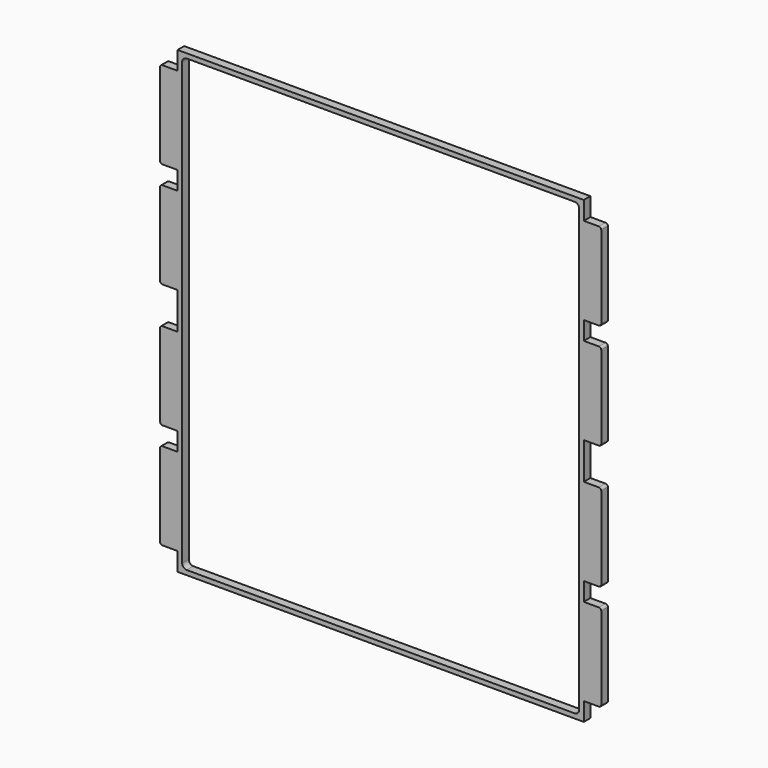
from build123d import *

# Parameters (mm, degrees)
F1_DEPTH = 18


with BuildPart() as f1:
    # F0 (on Front) → F1 (new body)
    with BuildSketch(Plane.XZ):
        with BuildLine():
            Line((0, 40), (0, 0))
            Line((0, 0), (884, 0))
            Line((884, 0), (884, 40))
            Line((884, 40), (917, 40))
            ThreePointArc((917, 40), (920.535534, 41.464466), (922, 45))
            Line((922, 45), (922, 225))
            ThreePointArc((922, 225), (920.535534, 228.535534), (917, 230))
            Line((917, 230), (884, 230))
            Line((884, 230), (884, 270))
            Line((884, 270), (917, 270))
            ThreePointArc((917, 270), (920.535534, 271.464466), (922, 275))
            Line((922, 275), (922, 455))
            ThreePointArc((922, 455), (920.535534, 458.535534), (917, 460))
            Line((917, 460), (884, 460))
            Line((884, 460), (884, 540))
            Line((884, 540), (917, 540))
            ThreePointArc((917, 540), (920.535534, 541.464466), (922, 545))
            Line((922, 545), (922, 725))
            ThreePointArc((922, 725), (920.535534, 728.535534), (917, 730))
            Line((917, 730), (884, 730))
            Line((884, 730), (884, 770))
            Line((884, 770), (917, 770))
            ThreePointArc((917, 770), (920.535534, 771.464466), (922, 775))
            Line((922, 775), (922, 955))
            ThreePointArc((922, 955), (920.535534, 958.535534), (917, 960))
            Line((917, 960), (884, 960))
            Line((884, 960), (884, 1000))
            Line((884, 1000), (0, 1000))
            Line((0, 1000), (0, 960))
            Line((0, 960), (-33, 960))
            ThreePointArc((-33, 960), (-36.535534, 958.535534), (-38, 955))
            Line((-38, 955), (-38, 775))
            ThreePointArc((-38, 775), (-36.535534, 771.464466), (-33, 770))
            Line((-33, 770), (0, 770))
            Line((0, 770), (0, 730))
            Line((0, 730), (-33, 730))
            ThreePointArc((-33, 730), (-36.535534, 728.535534), (-38, 725))
            Line((-38, 725), (-38, 545))
            ThreePointArc((-38, 545), (-36.535534, 541.464466), (-33, 540))
            Line((-33, 540), (0, 540))
            Line((0, 540), (0, 460))
            Line((0, 460), (-33, 460))
            ThreePointArc((-33, 460), (-36.535534, 458.535534), (-38, 455))
            Line((-38, 455), (-38, 275))
            ThreePointArc((-38, 275), (-36.535534, 271.464466), (-33, 270))
            Line((-33, 270), (0, 270))
            Line((0, 270), (0, 230))
            Line((0, 230), (-33, 230))
            ThreePointArc((-33, 230), (-36.535534, 228.535534), (-38, 225))
            Line((-38, 225), (-38, 45))
            ThreePointArc((-38, 45), (-36.535534, 41.464466), (-33, 40))
            Line((-33, 40), (0, 40))
        make_face()
        with BuildLine():
            ThreePointArc((10, 980), (12.928932, 987.071068), (20, 990))
            Line((20, 990), (864, 990))
            ThreePointArc((864, 990), (871.071068, 987.071068), (874, 980))
            Line((874, 980), (874, 20))
            ThreePointArc((874, 20), (871.071068, 12.928932), (864, 10))
            Line((864, 10), (20, 10))
            ThreePointArc((20, 10), (12.928932, 12.928932), (10, 20))
            Line((10, 20), (10, 980))
        make_face(mode=Mode.SUBTRACT)
    extrude(amount=F1_DEPTH)


solid = f1.part
